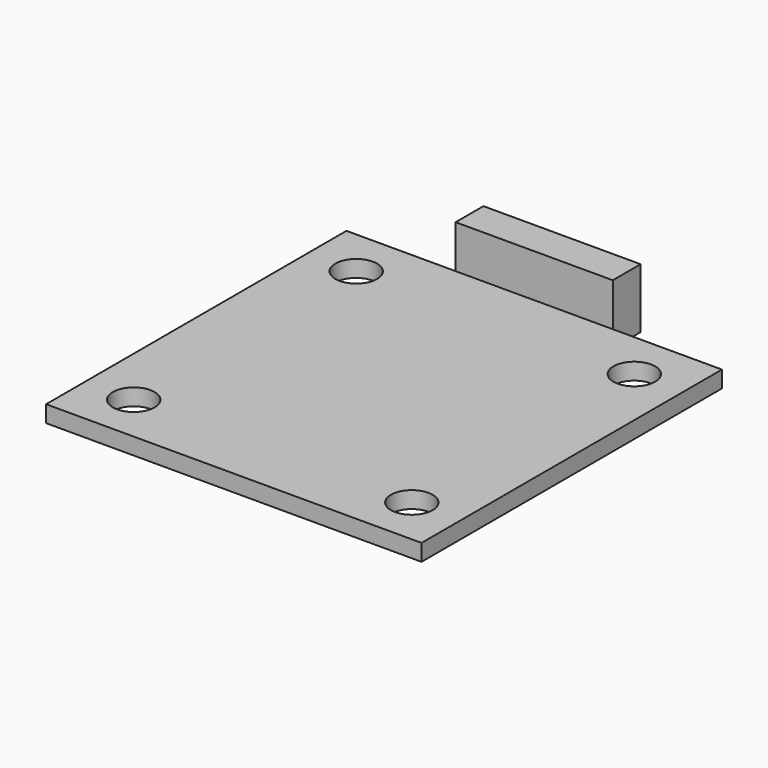
from build123d import *

# Parameters (mm, degrees)
F0_R     = 1.5
F1_DEPTH = 1.2
F2_DEPTH = 3.1


with BuildPart() as f1:
    # F0 (on Top) → F1 (new body)
    with BuildSketch(Plane.XY):
        Polygon((-5.65, 16), (-5.65, 13.5), (0, 13.5), (5.65, 13.5), (5.65, 16), align=None)
        Polygon((-5.65, 13.5), (-13.5, 13.5), (-13.5, -13.5), (13.5, -13.5), (13.5, 13.5), (5.65, 13.5), (0, 13.5), align=None)
        with Locations((-10, -10)):
            Circle(F0_R, mode=Mode.SUBTRACT)
        with Locations((10, -10)):
            Circle(F0_R, mode=Mode.SUBTRACT)
        with Locations((-10, 10)):
            Circle(F0_R, mode=Mode.SUBTRACT)
        with Locations((10, 10)):
            Circle(F0_R, mode=Mode.SUBTRACT)
    extrude(amount=-F1_DEPTH)

    # F0 (on Top) → F2 (join)
    with BuildSketch(Plane.XY):
        Polygon((-5.65, 16), (-5.65, 13.5), (0, 13.5), (5.65, 13.5), (5.65, 16), align=None)
    extrude(amount=F2_DEPTH)


solid = f1.part
